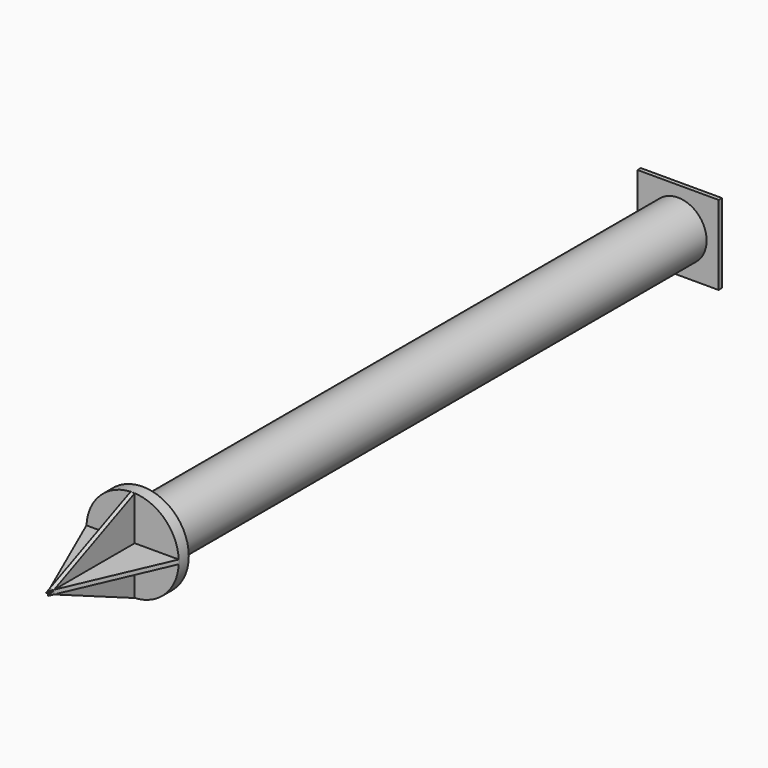
from build123d import *

# Parameters (mm, degrees)
F0_R      = 43.538166
F0_R_2    = 26.657293
F1_DEPTH  = 1023.62
F3_R      = 70.40233
F4_DEPTH  = 19.05
F7_DEPTH  = 3.175
F8_DEPTH  = 3.175
F10_DEPTH = 3.175


with BuildPart() as f1:
    # F0 (on Front) → F1 (new body)
    with BuildSketch(Plane.XZ):
        Circle(F0_R)
        Circle(F0_R_2, mode=Mode.SUBTRACT)
    extrude(amount=F1_DEPTH)

    # F3 (on offset) → F4 (join)
    with BuildSketch(Plane.XZ.offset(1023.62)):
        Circle(F3_R)
    extrude(amount=F4_DEPTH)

    # F9 (on Front) → F10 (join, symmetric)
    with BuildSketch(Plane.XZ):
        Polygon((-30.900305, 0), (-30.900305, 30.220892), (0, 30.220892), (0, 60.441785), (-61.80061, 60.441785), (-61.80061, 0), align=None)
        Polygon((-30.900305, -30.220892), (-30.900305, 0), (-61.80061, 0), (-61.80061, -60.441785), (0, -60.441785), (0, -30.220892), align=None)
        Polygon((61.80061, 0), (30.900305, 0), (30.900305, -30.220892), (0, -30.220892), (0, -60.441785), (61.80061, -60.441785), align=None)
        Polygon((0, 60.441785), (0, 30.220892), (30.900305, 30.220892), (30.900305, 0), (61.80061, 0), (61.80061, 60.441785), align=None)
    extrude(amount=F10_DEPTH, both=True)


with BuildPart() as f7:
    # F6 (on Top) → F7 (new body, symmetric)
    with BuildSketch(Plane.XY):
        Polygon((70.401758, -1042.670131), (-70.401974, -1042.670131), (0, -1203.451633), align=None)
    extrude(amount=F7_DEPTH, both=True)


with BuildPart() as f8:
    # F5 (on Right) → F8 (new body, symmetric)
    with BuildSketch(Plane.YZ):
        Polygon((-1042.67, -70.393234), (-1042.67, 0), (-1203.608274, 0), align=None)
        Polygon((-1203.608274, 0), (-1042.67, 0), (-1042.67, 70.183769), align=None)
    extrude(amount=F8_DEPTH, both=True)


solid = Compound([f1.part, f7.part, f8.part])
